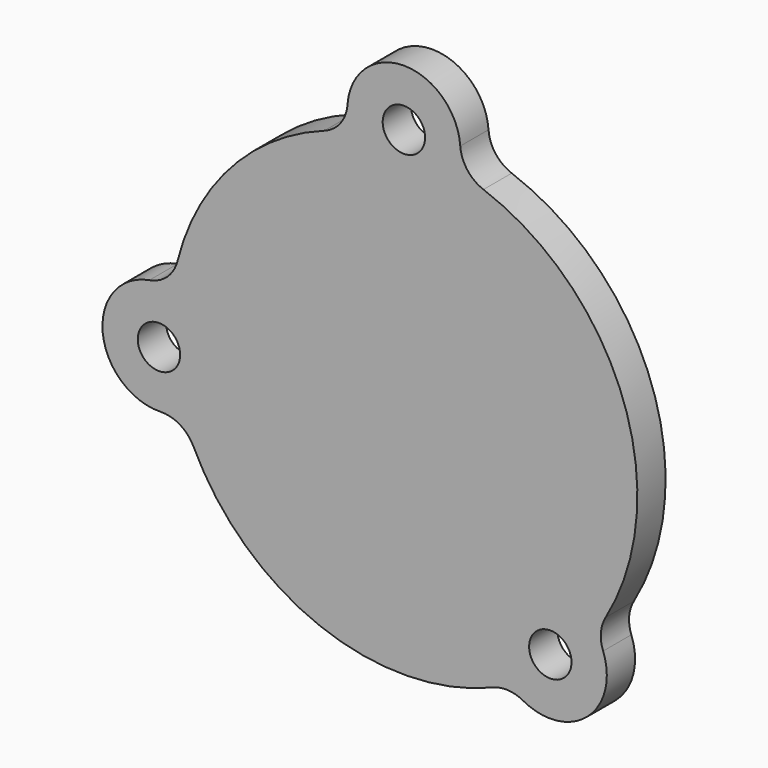
from build123d import *

# Parameters (mm, degrees)
F0_R     = 3
F1_DEPTH = 5


with BuildPart() as f1:
    # F0 (on Front) → F1 (new body)
    with BuildSketch(Plane.XZ):
        with BuildLine():
            ThreePointArc((12.565296, -30.565649), (14.746833, -30.198005), (16.873467, -30.807674))
            ThreePointArc((16.873467, -30.807674), (25.97897, -29.828457), (28.199125, -20.94364))
            ThreePointArc((28.199125, -20.94364), (27.887223, -18.753438), (28.550916, -16.64304))
            ThreePointArc((28.550916, -16.64304), (31.070939, 11.257989), (11.263325, 31.069005))
            ThreePointArc((11.263325, 31.069005), (8.977661, 32.756053), (7.979957, 35.415936))
            ThreePointArc((7.979957, 35.415936), (0, 42.85), (-7.979957, 35.415936))
            ThreePointArc((-7.979957, 35.415936), (-8.977661, 32.756053), (-11.263325, 31.069005))
            ThreePointArc((-11.263325, 31.069005), (-24.513088, 22.164252), (-32.042752, 8.087498))
            ThreePointArc((-32.042752, 8.087498), (-33.491826, 5.644022), (-36.038116, 4.38434))
            ThreePointArc((-36.038116, 4.38434), (-42.633541, -4.301591), (-34.435945, -11.494952))
            ThreePointArc((-34.435945, -11.494952), (-31.689342, -12.220598), (-29.781365, -14.325358))
            ThreePointArc((-29.781365, -14.325358), (-11.833639, -30.856289), (12.565296, -30.565649))
        make_face()
        with Locations((-34.673953, -3.498494)):
            Circle(F0_R, mode=Mode.SUBTRACT)
        with Locations((20.7248, -23.795739)):
            Circle(F0_R, mode=Mode.SUBTRACT)
        with Locations((0, 34.85)):
            Circle(F0_R, mode=Mode.SUBTRACT)
    extrude(amount=F1_DEPTH)


solid = f1.part
